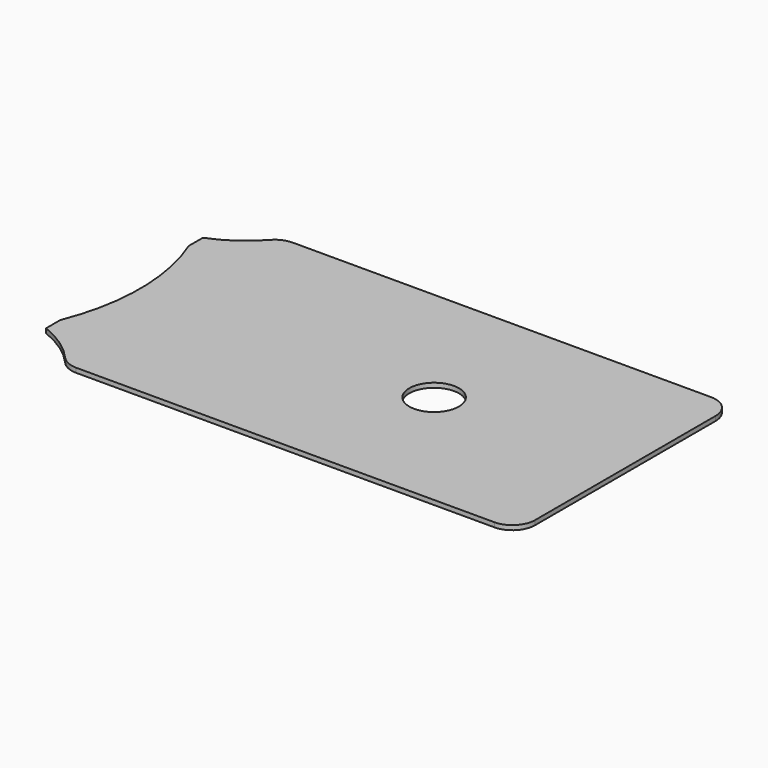
from build123d import *

# Parameters (mm, degrees)
F0_R     = 1.25
F0_R_2   = 5.5
F0_R_3   = 5
F1_DEPTH = 1


with BuildPart() as f1:
    # F0 (on Top) → F1 (new body)
    with BuildSketch(Plane.XY):
        with BuildLine():
            Line((48.267568, 8.860779), (-44.371753, 8.860779))
            ThreePointArc((-44.371753, 8.860779), (-46.412994, 8.425134), (-48.098533, 7.194113))
            ThreePointArc((-48.098533, 7.194113), (-52.488118, 3.315719), (-57.659668, 0.56518))
            Line((-57.659668, 0.56518), (-57.659668, -3.380423))
            ThreePointArc((-57.659668, -3.380423), (-54.215032, -21.137683), (-57.658519, -38.895166))
            Line((-57.658519, -38.895166), (-57.658519, -42.844069))
            ThreePointArc((-57.658519, -42.844069), (-52.487611, -45.594512), (-48.098533, -49.472554))
            ThreePointArc((-48.098533, -49.472554), (-46.412994, -50.703575), (-44.371753, -51.139221))
            Line((-44.371753, -51.139221), (48.267568, -51.139221))
            ThreePointArc((48.267568, -51.139221), (51.803101, -49.674755), (53.267568, -46.139221))
            Line((53.267568, -46.139221), (53.267568, -22.439221))
            Line((53.267568, -22.439221), (46.782555, -22.439221))
            ThreePointArc((46.782555, -22.439221), (45.636911, -22.799861), (44.904433, -23.751721))
            ThreePointArc((44.904433, -23.751721), (37.767568, -28.739221), (30.630702, -23.751721))
            ThreePointArc((30.630702, -23.751721), (29.898224, -22.799861), (28.75258, -22.439221))
            Line((28.75258, -22.439221), (22.267568, -22.439221))
            Line((22.267568, -22.439221), (22.267568, -36.139221))
            Line((22.267568, -36.139221), (11.842568, -36.139221))
            Line((11.842568, -36.139221), (11.842568, -38.439221))
            ThreePointArc((11.842568, -38.439221), (7.156568, -42.753221), (2.842568, -38.067221))
            Line((2.842568, -38.067221), (2.842568, -36.139221))
            Line((2.842568, -36.139221), (-22.307432, -36.139221))
            Line((-22.307432, -36.139221), (-22.307432, -38.067221))
            ThreePointArc((-22.307432, -38.067221), (-26.621432, -42.753221), (-31.307432, -38.439221))
            Line((-31.307432, -38.439221), (-31.307432, -36.139221))
            Line((-31.307432, -36.139221), (-41.732432, -36.139221))
            Line((-41.732432, -36.139221), (-41.732432, -6.139221))
            Line((-41.732432, -6.139221), (-31.307432, -6.139221))
            Line((-31.307432, -6.139221), (-31.307432, -3.839221))
            ThreePointArc((-31.307432, -3.839221), (-26.621432, 0.474779), (-22.307432, -4.211221))
            Line((-22.307432, -4.211221), (-22.307432, -6.139221))
            Line((-22.307432, -6.139221), (2.842568, -6.139221))
            Line((2.842568, -6.139221), (2.842568, -4.211221))
            ThreePointArc((2.842568, -4.211221), (7.156568, 0.474779), (11.842568, -3.839221))
            Line((11.842568, -3.839221), (11.842568, -6.139221))
            Line((11.842568, -6.139221), (22.267568, -6.139221))
            Line((22.267568, -6.139221), (22.267568, -19.839221))
            Line((22.267568, -19.839221), (28.75258, -19.839221))
            ThreePointArc((28.75258, -19.839221), (29.898224, -19.47858), (30.630702, -18.526721))
            ThreePointArc((30.630702, -18.526721), (37.767568, -13.539221), (44.904433, -18.526721))
            ThreePointArc((44.904433, -18.526721), (45.636911, -19.47858), (46.782555, -19.839221))
            Line((46.782555, -19.839221), (53.267568, -19.839221))
            Line((53.267568, -19.839221), (53.267568, 3.860779))
            ThreePointArc((53.267568, 3.860779), (51.803101, 7.396313), (48.267568, 8.860779))
        make_face()
        with Locations((-38.380432, -42.839221)):
            Circle(F0_R, mode=Mode.SUBTRACT)
        with Locations((37.767568, -42.839221)):
            Circle(F0_R, mode=Mode.SUBTRACT)
        with Locations((-38.380432, 0.560779)):
            Circle(F0_R, mode=Mode.SUBTRACT)
        with Locations((37.767568, 0.560779)):
            Circle(F0_R, mode=Mode.SUBTRACT)
        with BuildLine():
            Line((22.267568, -21.139221), (22.267568, -19.839221))
            Line((22.267568, -19.839221), (22.267568, -6.139221))
            Line((22.267568, -6.139221), (11.842568, -6.139221))
            Line((11.842568, -6.139221), (11.842568, -3.839221))
            ThreePointArc((11.842568, -3.839221), (7.156568, 0.474779), (2.842568, -4.211221))
            Line((2.842568, -4.211221), (2.842568, -6.139221))
            Line((2.842568, -6.139221), (-22.307432, -6.139221))
            Line((-22.307432, -6.139221), (-22.307432, -4.211221))
            ThreePointArc((-22.307432, -4.211221), (-26.621432, 0.474779), (-31.307432, -3.839221))
            Line((-31.307432, -3.839221), (-31.307432, -6.139221))
            Line((-31.307432, -6.139221), (-41.732432, -6.139221))
            Line((-41.732432, -6.139221), (-41.732432, -36.139221))
            Line((-41.732432, -36.139221), (-31.307432, -36.139221))
            Line((-31.307432, -36.139221), (-31.307432, -38.439221))
            ThreePointArc((-31.307432, -38.439221), (-26.621432, -42.753221), (-22.307432, -38.067221))
            Line((-22.307432, -38.067221), (-22.307432, -36.139221))
            Line((-22.307432, -36.139221), (2.842568, -36.139221))
            Line((2.842568, -36.139221), (2.842568, -38.067221))
            ThreePointArc((2.842568, -38.067221), (7.156568, -42.753221), (11.842568, -38.439221))
            Line((11.842568, -38.439221), (11.842568, -36.139221))
            Line((11.842568, -36.139221), (22.267568, -36.139221))
            Line((22.267568, -36.139221), (22.267568, -22.439221))
            Line((22.267568, -22.439221), (22.267568, -21.139221))
        make_face()
        with Locations((10.917568, -21.139221)):
            Circle(F0_R_2, mode=Mode.SUBTRACT)
        with BuildLine():
            Line((53.267568, -22.439221), (53.267568, -19.839221))
            Line((53.267568, -19.839221), (46.782555, -19.839221))
            ThreePointArc((46.782555, -19.839221), (45.636911, -19.47858), (44.904433, -18.526721))
            ThreePointArc((44.904433, -18.526721), (37.767568, -13.539221), (30.630702, -18.526721))
            ThreePointArc((30.630702, -18.526721), (29.898224, -19.47858), (28.75258, -19.839221))
            Line((28.75258, -19.839221), (22.267568, -19.839221))
            Line((22.267568, -19.839221), (22.267568, -21.139221))
            Line((22.267568, -21.139221), (22.267568, -22.439221))
            Line((22.267568, -22.439221), (28.75258, -22.439221))
            ThreePointArc((28.75258, -22.439221), (29.898224, -22.799861), (30.630702, -23.751721))
            ThreePointArc((30.630702, -23.751721), (37.767568, -28.739221), (44.904433, -23.751721))
            ThreePointArc((44.904433, -23.751721), (45.636911, -22.799861), (46.782555, -22.439221))
            Line((46.782555, -22.439221), (53.267568, -22.439221))
        make_face()
        with Locations((37.767568, -21.139221)):
            Circle(F0_R_3, mode=Mode.SUBTRACT)
        with Locations((37.767568, -21.139221)):
            Circle(F0_R_3)
        with Locations((37.767568, 0.560779)):
            Circle(F0_R)
        with Locations((37.767568, -42.839221)):
            Circle(F0_R)
        with Locations((-38.380432, -42.839221)):
            Circle(F0_R)
        with Locations((-38.380432, 0.560779)):
            Circle(F0_R)
    extrude(amount=F1_DEPTH)


solid = f1.part
